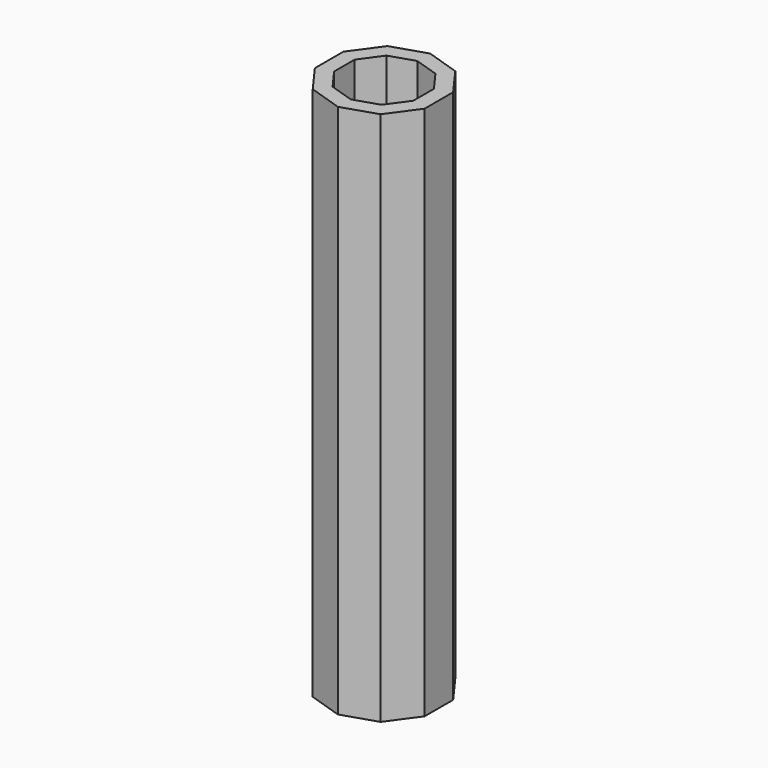
from build123d import *

# Parameters (mm, degrees)
F1_DEPTH = 381
F2_T     = -10.885714


with BuildPart() as f1:
    # F0 (on Top) → F1 (new body)
    with BuildSketch(Plane.XY):
        Polygon((39.086581, -12.7), (39.086581, 12.7), (24.156836, 33.249032), (0, 41.098063), (-24.156836, 33.249032), (-39.086581, 12.7), (-39.086581, -12.7), (-24.156836, -33.249032), (0, -41.098063), (24.156836, -33.249032), align=None)
    extrude(amount=F1_DEPTH)

    # F2
    f2_openings = [f1.faces().sort_by_distance(p)[0] for p in [
        (0, 0, 381),
    ]]
    offset(amount=F2_T, openings=f2_openings)


solid = f1.part
